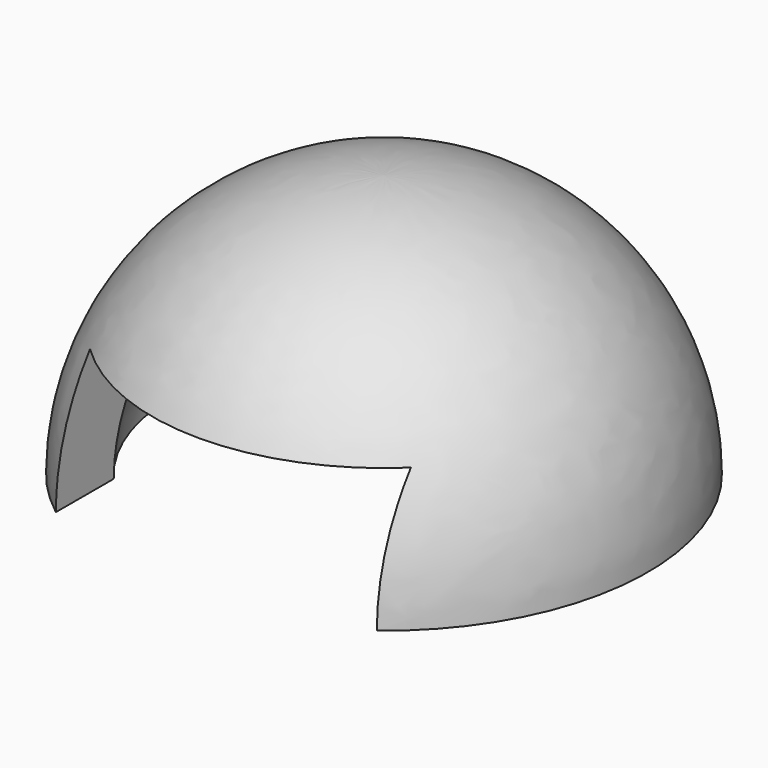
from build123d import *

# Parameters (mm, degrees)
F2_W     = 456
F2_H     = 180
F3_DEPTH = 400


with BuildPart() as f1:
    # F0 (on Right) → F1 (revolve)
    with BuildSketch(Plane.YZ):
        with BuildLine():
            ThreePointArc((-299.999698, 0.425515), (-211.981539, 212.282423), (0, 300))
            Line((0, 300), (0, 375))
            ThreePointArc((0, 375), (-264.976923, 265.353029), (-374.999623, 0.531893))
            Line((-374.999623, 0.531893), (-299.999698, 0.425515))
        make_face()
    revolve(axis=Axis((0, 0, 0), (0, 0, -1)))

    # F2 (on Front) → F3 (cut)
    with BuildSketch(Plane.XZ):
        with Locations((0, 90)):
            Rectangle(F2_W, F2_H)
    extrude(amount=F3_DEPTH, mode=Mode.SUBTRACT)


solid = f1.part
